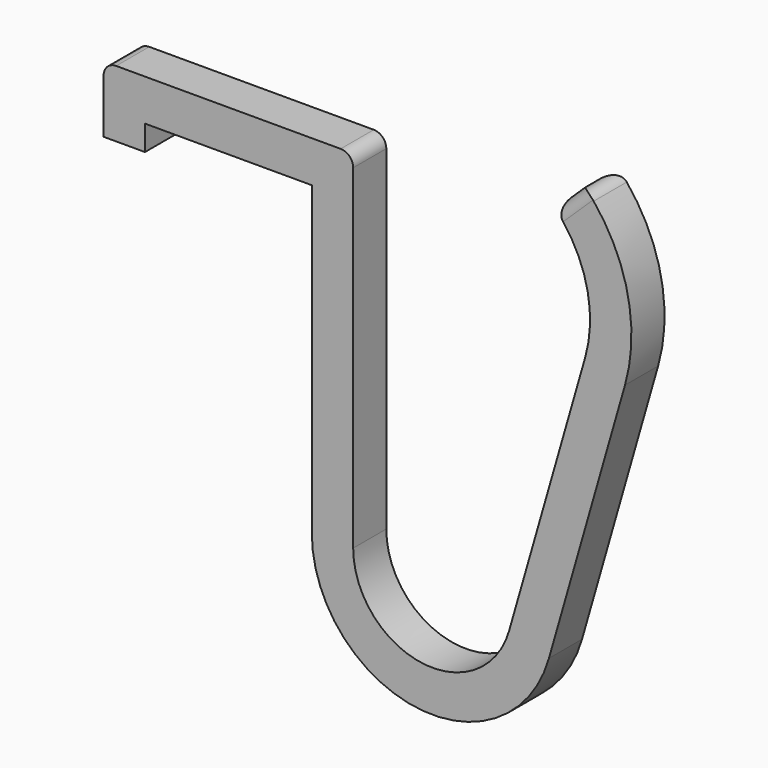
from build123d import *

# Parameters (mm, degrees)
PAD_DEPTH = 3.3
FILLET_R  = 1


with BuildPart() as part:
    # Sketch002 → Pad (new body)
    with BuildSketch(Plane.XZ):
        with BuildLine():
            Line((16.6, 3.3), (19.9, 3.3))
            Line((19.9, 3.3), (19.9, -24.4))
            ThreePointArc((19.9, -24.4), (25.357643, -30.6783), (32.334399, -26.147541))
            Line((32.334399, -26.147541), (38.398421, -4.999784))
            ThreePointArc((38.398421, -4.999784), (38.488761, 0.175809), (35.979202, 4.703174))
            Line((35.979202, 4.703174), (38.353023, 6.995546))
            ThreePointArc((41.570585, -5.909387), (41.690737, 0.974151), (38.353023, 6.995546))
            Line((35.506563, -27.057144), (41.570585, -5.909387))
            ThreePointArc((16.6, -24.4), (24.898371, -33.946184), (35.506563, -27.057144))
            Line((16.6, 0), (16.6, -24.4))
            Line((3.3, 0), (16.6, 0))
            Line((3.3, -2), (3.3, 0))
            Line((0, -2), (3.3, -2))
            Line((0, 0), (0, -2))
            Line((0, 3.3), (0, 0))
            Line((16.6, 3.3), (0, 3.3))
        make_face()
    extrude(amount=PAD_DEPTH)

    # Fillet
    fillet_edges = [part.edges().sort_by_distance(p)[0] for p in [
        (0, -1.65, 3.3),
        (19.9, -1.65, 3.3),
        (35.979202, -1.65, 4.703174),
        (38.353023, -1.65, 6.995546),
        (37.166113, 0, 5.84936),
        (37.166113, -3.3, 5.84936),
    ]]
    fillet(fillet_edges, radius=FILLET_R)


solid = part.part
